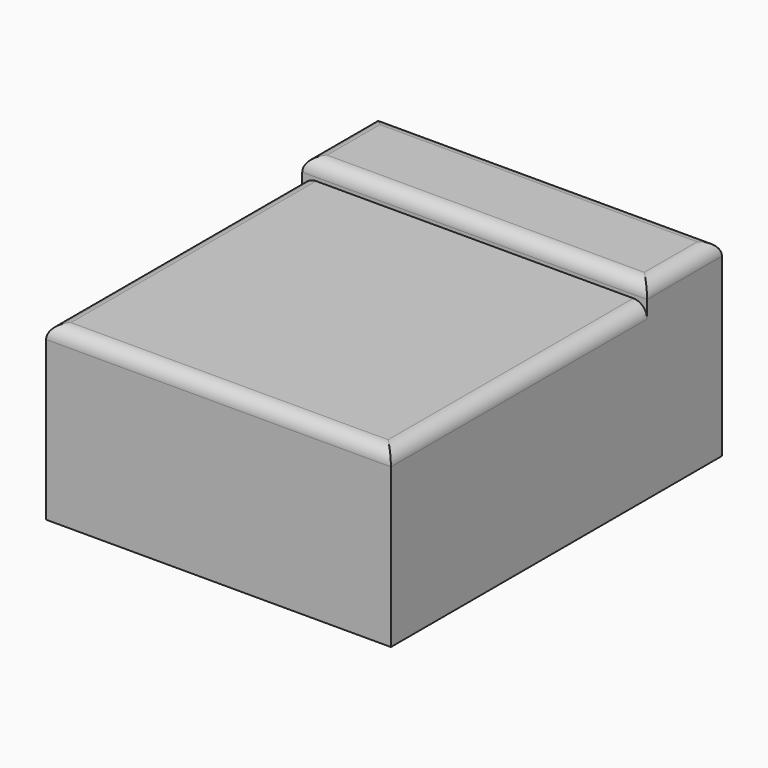
from build123d import *

# Parameters (mm, degrees)
F0_W     = 127
F0_H     = 152.4
F1_DEPTH = 63.5
F2_W     = 127
F2_H     = 34.469361
F3_DEPTH = 6.35
F4_R     = 5.08


with BuildPart() as f1:
    # F0 (on Top) → F1 (new body)
    with BuildSketch(Plane.XY):
        with Locations((-9.836091, 25.580134)):
            Rectangle(F0_W, F0_H)
    extrude(amount=F1_DEPTH)

    # F2 (on face) → F3 (join)
    with BuildSketch(Plane.XY.offset(63.5)):
        with Locations((-9.836091, 84.545453)):
            Rectangle(F2_W, F2_H)
    extrude(amount=F3_DEPTH)

    # F4
    f4_edges = [f1.edges().sort_by_distance(p)[0] for p in [
        (-9.836091, 67.310773, 69.85),
        (53.663909, 8.345453, 63.5),
        (-9.836091, -50.619866, 63.5),
        (-73.336091, 8.345453, 63.5),
        (-9.836091, 101.780134, 69.85),
        (53.663909, 84.545453, 69.85),
        (-73.336091, 84.545453, 69.85),
    ]]
    fillet(f4_edges, radius=F4_R)


solid = f1.part
